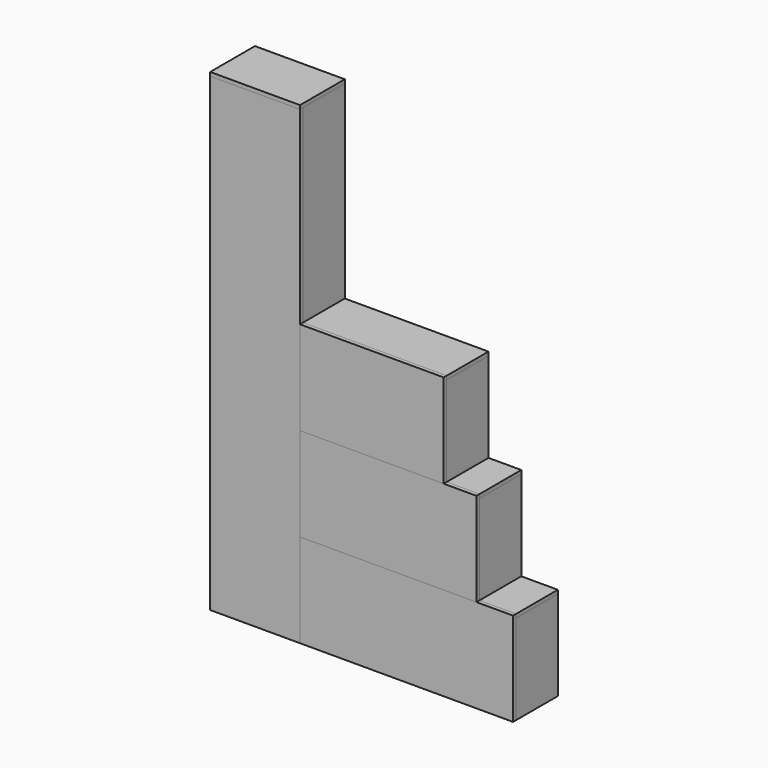
from build123d import *

# Parameters (mm, degrees)
F3_W      = 688
F3_H      = 448
F4_DEPTH  = 18
F2_W      = 845
F2_H      = 448
F1_W      = 1020
F1_H      = 448
F0_W      = 430
F0_H      = 2250
F6_DEPTH  = 18
F7_W      = 250
F7_H      = 430
F8_DEPTH  = 18
F9_W      = 1020
F9_H      = 250
F10_DEPTH = 18
F11_W     = 250
F11_H     = 430
F12_DEPTH = 18
F13_W     = 350
F13_H     = 250
F14_DEPTH = 200
F15_W     = 430
F15_H     = 268
F16_DEPTH = 18
F17_W     = 250
F17_H     = 430
F18_DEPTH = 18
F19_W     = 250
F19_H     = 18
F20_DEPTH = 634
F21_W     = 250
F21_H     = 18
F22_DEPTH = 827
F24_W     = 688
F24_H     = 250
F25_DEPTH = 18
F27_DEPTH = 18
F29_DEPTH = 670
F28_W     = 157
F28_H     = 18
F30_DEPTH = 250
F31_DEPTH = 250


with BuildPart() as f4:
    # F3 (on Front) → F4 (new body)
    with BuildSketch(Plane.XZ):
        with Locations((774, 1120)):
            Rectangle(F3_W, F3_H)
    extrude(amount=F4_DEPTH)


with BuildPart() as f4b:
    # F2 (on Front) → F4, piece 2 (new body)
    with BuildSketch(Plane.XZ):
        with Locations((852.5, 672)):
            Rectangle(F2_W, F2_H)
    extrude(amount=F4_DEPTH)


with BuildPart() as f4c:
    # F1 (on Front) → F4, piece 3 (new body)
    with BuildSketch(Plane.XZ):
        with Locations((940, 224)):
            Rectangle(F1_W, F1_H)
    extrude(amount=F4_DEPTH)


with BuildPart() as f4d:
    # F0 (on Front) → F4, piece 4 (new body)
    with BuildSketch(Plane.XZ):
        with Locations((215, 1125)):
            Rectangle(F0_W, F0_H)
    extrude(amount=F4_DEPTH)


with BuildPart() as f6:
    # F5 (on face) → F6 (new body)
    with BuildSketch(Plane.YZ.offset(430)):
        Polygon((0, 896), (0, 0), (250, 0), (250, 2250), (0, 2250), (0, 1344), align=None)
    extrude(amount=-F6_DEPTH)


with BuildPart() as f8:
    # F7 (on face) → F8 (new body)
    with BuildSketch(Plane.YZ.offset(1275)):
        with Locations((125, 663)):
            Rectangle(F7_W, F7_H)
    extrude(amount=-F8_DEPTH)


with BuildPart() as f10:
    # F9 (on face) → F10 (new body)
    with BuildSketch(Plane(origin=(0, 0, 448), x_dir=(1, 0, 0), z_dir=(0, 0, -1))):
        with Locations((940, -125)):
            Rectangle(F9_W, F9_H)
    extrude(amount=F10_DEPTH)


with BuildPart() as f12:
    # F11 (on face) → F12 (new body)
    with BuildSketch(Plane.YZ.offset(1450)):
        with Locations((125, 215)):
            Rectangle(F11_W, F11_H)
    extrude(amount=-F12_DEPTH)


with BuildPart() as f14:
    # F13 (on face) → F14 (new body)
    with BuildSketch(Plane(origin=(0, 0, 0), x_dir=(1, 0, 0), z_dir=(0, 0, -1))):
        with Locations((605, -125)):
            Rectangle(F13_W, F13_H)
    extrude(amount=-F14_DEPTH)


with BuildPart() as f16:
    # F15 (on face) → F16 (new body)
    with BuildSketch(Plane.XY.offset(2250)):
        with Locations((215, 116)):
            Rectangle(F15_W, F15_H)
    extrude(amount=F16_DEPTH)


with BuildPart() as f18:
    # F17 (on face) → F18 (new body)
    with BuildSketch(Plane.YZ.offset(780)):
        with Locations((125, 215)):
            Rectangle(F17_W, F17_H)
    extrude(amount=F18_DEPTH)


with BuildPart() as f20:
    # F19 (on face) → F20 (new body, through all)
    with BuildSketch(Plane.YZ.offset(798)):
        with Locations((125, 206)):
            Rectangle(F19_W, F19_H)
    extrude(amount=F20_DEPTH)


with BuildPart() as f22:
    # F21 (on face) → F22 (new body, through all)
    with BuildSketch(Plane(origin=(1257, 0, 0), x_dir=(0, -1, 0), z_dir=(-1, 0, 0))):
        with Locations((-125, 663)):
            Rectangle(F21_W, F21_H)
    extrude(amount=F22_DEPTH)


with BuildPart() as f25:
    # F24 (on face) → F25 (new body)
    with BuildSketch(Plane.XY.offset(1344)):
        with Locations((774, 125)):
            Rectangle(F24_W, F24_H)
    extrude(amount=-F25_DEPTH)


with BuildPart() as f27:
    # F26 (on face) → F27 (new body)
    with BuildSketch(Plane.YZ.offset(1118)):
        Polygon((250, 1326), (0, 1326), (0, 896), (0, 875.6137390876), (250, 742.6863811722), align=None)
    extrude(amount=-F27_DEPTH)


with BuildPart() as f29:
    # F23 (on face) → F29 (new body, through all)
    with BuildSketch(Plane.YZ.offset(430)):
        Polygon((250, 742.6863811722), (250, 763.0726420846), (0, 896), (0, 875.6137390876), align=None)
    extrude(amount=F29_DEPTH)


with BuildPart() as f30:
    # F28 (on face) → F30 (new body, through all)
    with BuildSketch(Plane.XZ):
        with Locations((1196.5, 887)):
            Rectangle(F28_W, F28_H)
    extrude(amount=-F30_DEPTH)


with BuildPart() as f31:
    # F28 (on face) → F31 (new body, through all)
    with BuildSketch(Plane.XZ):
        with Locations((1196.5, 887)):
            Rectangle(F28_W, F28_H)
    extrude(amount=-F31_DEPTH)


solid = Compound([f4.part, f4b.part, f4c.part, f4d.part, f6.part, f8.part, f10.part, f12.part, f14.part, f16.part, f18.part, f20.part, f22.part, f25.part, f27.part, f29.part, f30.part])
